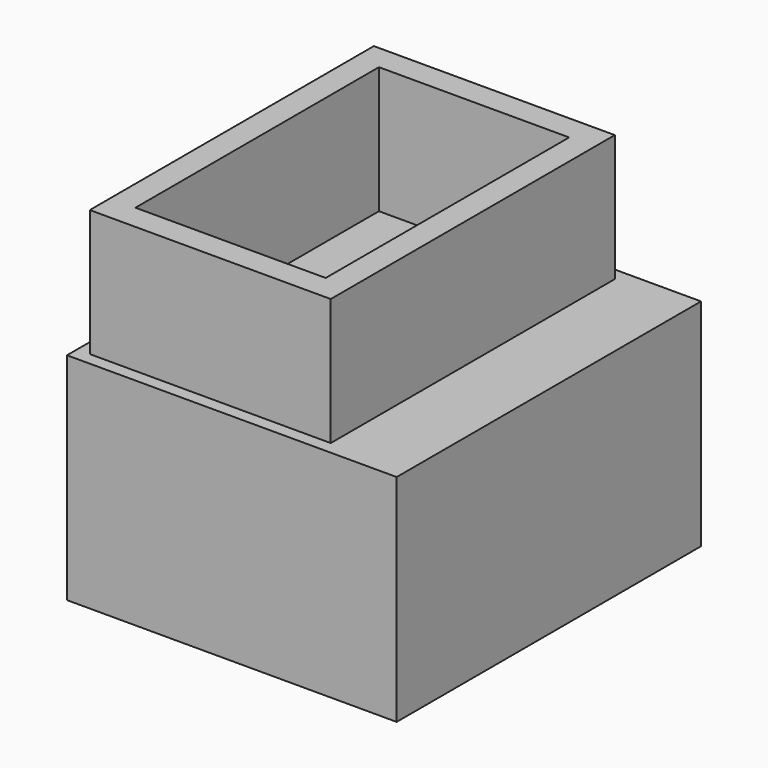
from build123d import *

# Parameters (mm, degrees)
F0_W     = 26
F0_H     = 30
F0_W_2   = 22
F0_H_2   = 26
F1_DEPTH = 17
F2_DEPTH = 2
F3_W     = 19
F3_H     = 28
F3_W_2   = 15
F3_H_2   = 24
F4_DEPTH = 10


with BuildPart() as f1:
    # F0 (on Top) → F1 (new body)
    with BuildSketch(Plane.XY):
        Rectangle(F0_W, F0_H)
        Rectangle(F0_W_2, F0_H_2, mode=Mode.SUBTRACT)
    extrude(amount=-F1_DEPTH)

    # F0 (on Top) → F2 (join)
    with BuildSketch(Plane.XY):
        Rectangle(F0_W_2, F0_H_2)
    extrude(amount=-F2_DEPTH)

    # F3 (on Top) → F4 (join)
    with BuildSketch(Plane.XY):
        with Locations((-2.5, 0)):
            Rectangle(F3_W, F3_H)
        with Locations((-2.5, 0)):
            Rectangle(F3_W_2, F3_H_2, mode=Mode.SUBTRACT)
    extrude(amount=F4_DEPTH)


solid = f1.part
